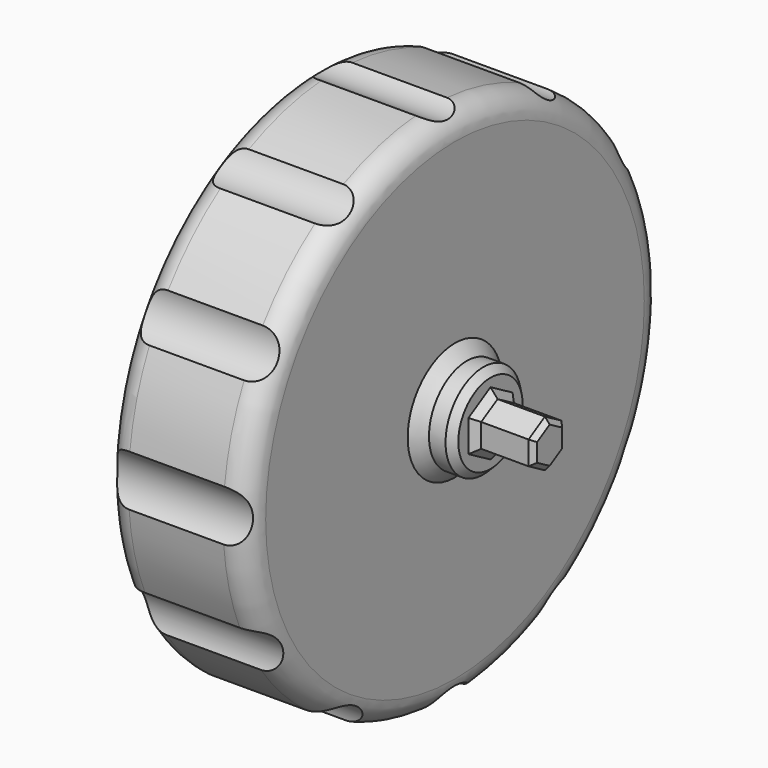
from build123d import *

# Parameters (mm, degrees)
F0_R      = 11
F1_DEPTH  = 3
F2_R      = 1
F3_R      = 9
F4_DEPTH  = 4
F5_R      = 2
F5_R_2    = 0.75
F6_DEPTH  = 9
F7_R      = 2
F8_DEPTH  = 1.5
F10_DEPTH = 2.5
F11_SIZE  = 0.5
F12_SIZE  = 0.5
F13_R     = 1.5
F14_DEPTH = 12.5
F15_SIZE  = 0.3
F16_SIZE  = 0.2


with BuildPart() as f1:
    # F0 (on Right) → F1 (new body, symmetric)
    with BuildSketch(Plane.YZ):
        Circle(F0_R)
    extrude(amount=F1_DEPTH, both=True)

    # F2
    f2_edges = [f1.edges().sort_by_distance(p)[0] for p in [
        (-3, -11, 0),
        (3, -11, 0),
    ]]
    fillet(f2_edges, radius=F2_R)

    # F3 (on face) → F4 (cut)
    with BuildSketch(Plane(origin=(-3, 0, 0), x_dir=(0, -1, 0), z_dir=(-1, 0, 0))):
        Circle(F3_R)
    extrude(amount=-F4_DEPTH, mode=Mode.SUBTRACT)

    # F5 (on face) → F6 (join)
    with BuildSketch(Plane(origin=(1, 0, 0), x_dir=(0, -1, 0), z_dir=(-1, 0, 0))):
        Circle(F5_R)
        Circle(F5_R_2, mode=Mode.SUBTRACT)
    extrude(amount=F6_DEPTH)

    # F7 (on face) → F8 (join)
    with BuildSketch(Plane.YZ.offset(3)):
        Circle(F7_R)
    extrude(amount=F8_DEPTH)

    # F9 (on face) → F10 (join)
    with BuildSketch(Plane.YZ.offset(4.5)):
        Polygon((0.865, -0.4994079828), (0.865, 0.4994079828), (0, 0.9988159657), (-0.865, 0.4994079828), (-0.865, -0.4994079828), (0, -0.9988159657), align=None)
    extrude(amount=F10_DEPTH)

    # F11
    f11_edges = [f1.edges().sort_by_distance(p)[0] for p in [
        (-8, 2, 0),
    ]]
    chamfer(f11_edges, length=F11_SIZE)

    # F12
    f12_edges = [f1.edges().sort_by_distance(p)[0] for p in [
        (3, -2, 0),
        (1, 2, 0),
        (1, 9, 0),
    ]]
    chamfer(f12_edges, length=F12_SIZE)

    # F13 (on Right) → F14 (cut, symmetric)
    with BuildSketch(Plane.YZ):
        with Locations((0, 12.2226355597)):
            Circle(F13_R)
        with Locations((-6, 10.6149404052)):
            Circle(F13_R)
        with Locations((-10.3923048454, 6.2226355597)):
            Circle(F13_R)
        with Locations((-12, 0.2226355597)):
            Circle(F13_R)
        with Locations((-10.3923048454, -5.7773644403)):
            Circle(F13_R)
        with Locations((-6, -10.1696692857)):
            Circle(F13_R)
        with Locations((0, -11.7773644403)):
            Circle(F13_R)
        with Locations((6, -10.1696692857)):
            Circle(F13_R)
        with Locations((10.3923048454, -5.7773644403)):
            Circle(F13_R)
        with Locations((12, 0.2226355597)):
            Circle(F13_R)
        with Locations((10.3923048454, 6.2226355597)):
            Circle(F13_R)
        with Locations((6, 10.6149404052)):
            Circle(F13_R)
    extrude(amount=F14_DEPTH, both=True, mode=Mode.SUBTRACT)

    # F15
    f15_edges = [f1.edges().sort_by_distance(p)[0] for p in [
        (4.5, -2, 0),
        (4.5, 0.4325, -0.749112),
        (4.5, 0.865, 0),
        (4.5, 0.4325, 0.749112),
        (4.5, -0.4325, 0.749112),
        (4.5, -0.865, 0),
        (4.5, -0.4325, -0.749112),
    ]]
    chamfer(f15_edges, length=F15_SIZE)

    # F16
    f16_edges = [f1.edges().sort_by_distance(p)[0] for p in [
        (7, 0.4325, -0.749112),
        (7, 0.865, 0),
        (7, 0.4325, 0.749112),
        (7, -0.4325, 0.749112),
        (7, -0.865, 0),
        (7, -0.4325, -0.749112),
    ]]
    chamfer(f16_edges, length=F16_SIZE)


solid = f1.part
